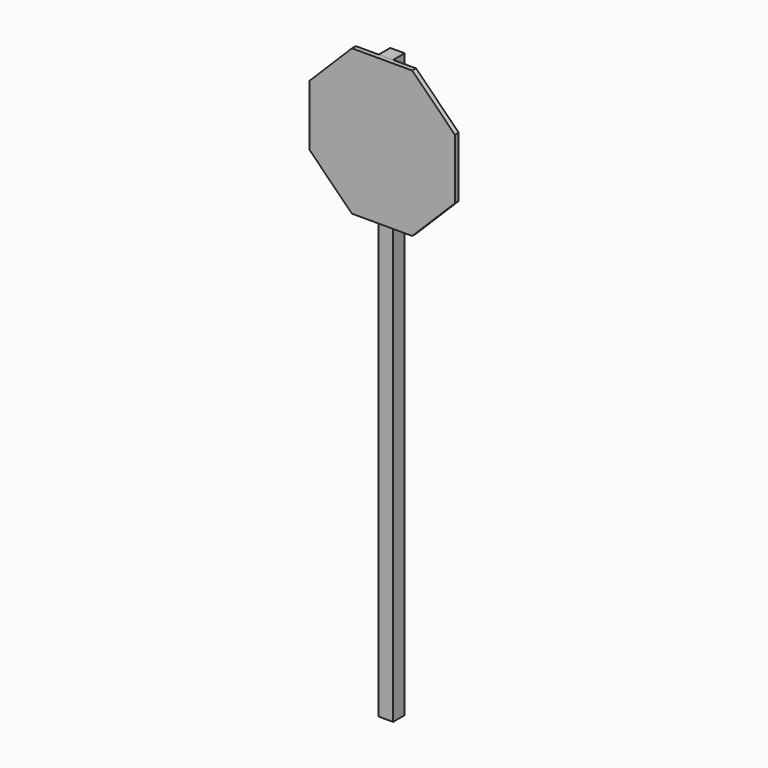
from build123d import *

# Parameters (mm, degrees)
F1_W     = 60.33
F1_H     = 609.6
F2_DEPTH = 20
F1_H_2   = 1830.4
F3_DEPTH = 60.33


with BuildPart() as f2:
    # F1 (on Front) → F2 (new body)
    with BuildSketch(Plane.XZ):
        with Locations((0, 915.2)):
            Rectangle(F1_W, F1_H)
        Polygon((-30.165, 610.4), (-30.165, 1220), (-126.252294, 1220), (-304.8, 1041.452294), (-304.8, 788.947706), (-126.252294, 610.4), align=None)
        Polygon((126.252294, 1220), (30.165, 1220), (30.165, 610.4), (126.252294, 610.4), (304.8, 788.947706), (304.8, 1041.452294), align=None)
    extrude(amount=F2_DEPTH)


with BuildPart() as f3:
    # F1 (on Front) → F3 (new body)
    with BuildSketch(Plane.XZ):
        with Locations((0, -304.8)):
            Rectangle(F1_W, F1_H_2)
        with Locations((0, 915.2)):
            Rectangle(F1_W, F1_H)
    extrude(amount=-F3_DEPTH)


solid = Compound([f2.part, f3.part])
